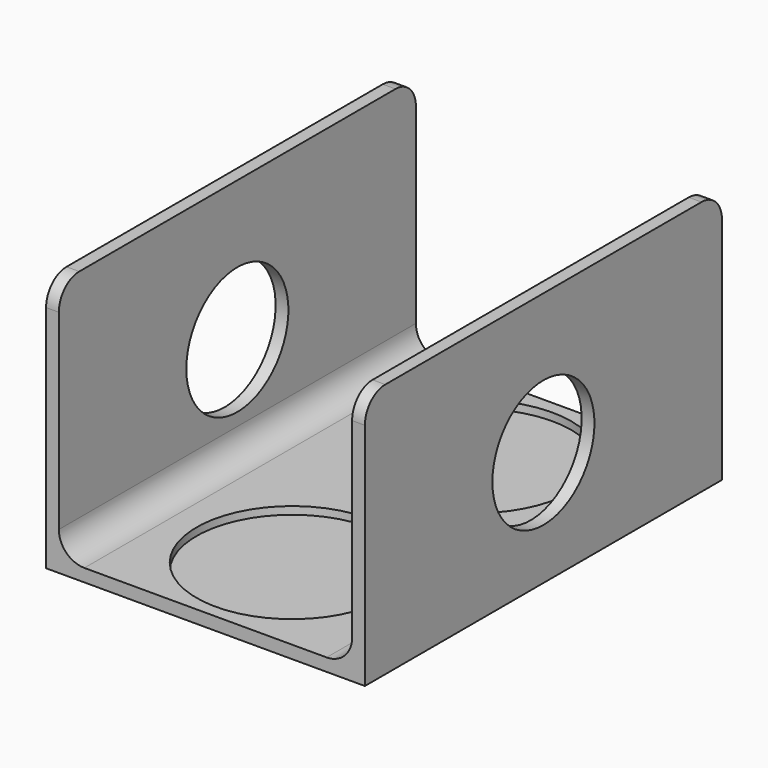
from build123d import *

# Parameters (mm, degrees)
F1_DEPTH = 35
F2_R     = 7.5
F3_DEPTH = 0.6
F4_R     = 2
F5_R     = 5
F6_DEPTH = 25.001


with BuildPart() as f1:
    # F0 (on Front) → F1 (new body)
    with BuildSketch(Plane.XZ):
        Polygon((-12.5, 0), (0, 0), (12.5, 0), (12.5, 20), (11.5, 20), (11.5, 1), (0, 1), (-11.5, 1), (-11.5, 20), (-12.5, 20), align=None)
    extrude(amount=F1_DEPTH)

    # F2 (on face) → F3 (cut)
    with BuildSketch(Plane.XY.offset(1)):
        with Locations((0, -8.5)):
            Circle(F2_R)
        with Locations((0, -26.5)):
            Circle(F2_R)
    extrude(amount=-F3_DEPTH, mode=Mode.SUBTRACT)

    # F4
    f4_edges = [f1.edges().sort_by_distance(p)[0] for p in [
        (-11.5, -17.5, 1),
        (11.5, -17.5, 1),
        (-12, -35, 20),
        (12, -35, 20),
        (12, 0, 20),
        (-12, 0, 20),
    ]]
    fillet(f4_edges, radius=F4_R)

    # F5 (on face) → F6 (cut, through all)
    with BuildSketch(Plane(origin=(-12.5, 0, 0), x_dir=(0, -1, 0), z_dir=(-1, 0, 0))):
        with Locations((17.5, 9)):
            Circle(F5_R)
    extrude(amount=-F6_DEPTH, mode=Mode.SUBTRACT)


solid = f1.part
